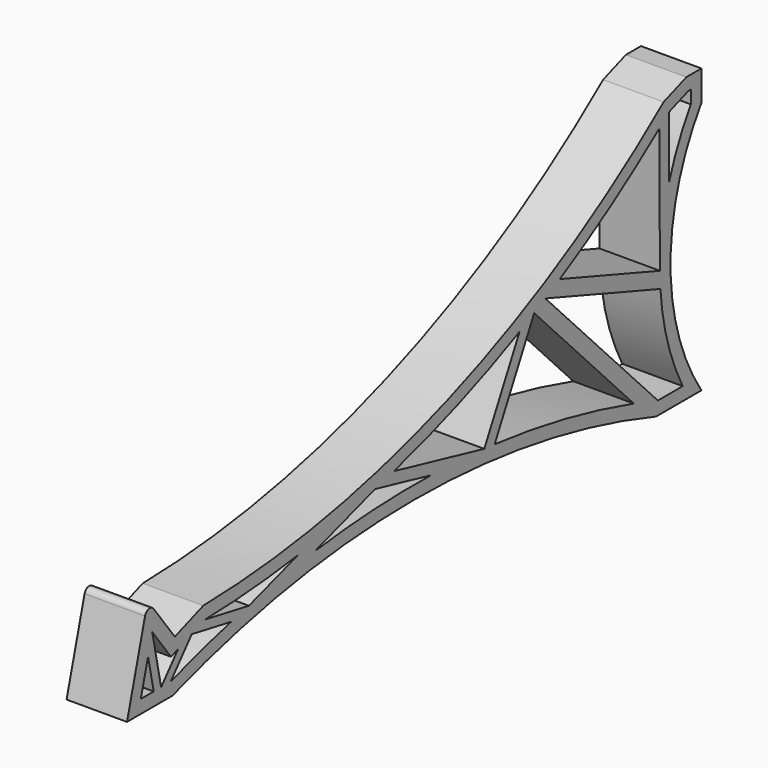
from build123d import *

# Parameters (mm, degrees)
F1_DEPTH = 16
F2_R     = 1.6


with BuildPart() as f1:
    # F0 (on Right) → F1 (new body)
    with BuildSketch(Plane.YZ):
        with BuildLine():
            ThreePointArc((15, 0), (95, 13.145614), (175, 0))
            Line((175, 0), (190, 0))
            ThreePointArc((190, 0), (179.777003, 33.5), (190, 67))
            Line((190, 67), (190, 75))
            Line((190, 75), (185, 75))
            Line((185, 75), (177.482459, 72.263839))
            ThreePointArc((177.482459, 72.263839), (105.960508, 31.872238), (25.208295, 16.840576))
            Line((25.208295, 16.840576), (15.811369, 13.420374))
            Line((15.811369, 13.420374), (6.811369, 25.420374))
            Line((6.811369, 25.420374), (0, 0))
            Line((0, 0), (15, 0))
        make_face()
        with BuildLine():
            Line((186.5, 71.5), (186.5, 68.05157))
            ThreePointArc((186.5, 68.05157), (182.422611, 60.752958), (179.3394, 52.981945))
            ThreePointArc((179.3394, 52.981945), (177.042373, 43.329355), (176.277034, 33.436778))
            ThreePointArc((176.277034, 33.436778), (176.315408, 31.291831), (176.426215, 29.149404))
            ThreePointArc((176.426215, 29.149404), (178.755472, 15.932338), (183.810495, 3.5))
            Line((183.810495, 3.5), (175.573068, 3.5))
            ThreePointArc((175.573068, 3.5), (171.612143, 4.791698), (167.630525, 6.018126))
            ThreePointArc((167.630525, 6.018126), (144.827094, 11.700459), (121.595438, 15.246651))
            ThreePointArc((121.595438, 15.246651), (119.881603, 15.421566), (118.166618, 15.58483))
            ThreePointArc((118.166618, 15.58483), (109.389568, 16.236883), (100.595173, 16.583859))
            ThreePointArc((100.595173, 16.583859), (81.30162, 16.275234), (62.087435, 14.499972))
            ThreePointArc((62.087435, 14.499972), (51.1562, 12.825352), (40.308404, 10.675571))
            ThreePointArc((40.308404, 10.675571), (37.389385, 10.012516), (34.478398, 9.315039))
            ThreePointArc((34.478398, 9.315039), (24.392776, 6.614031), (14.426932, 3.5))
            Line((14.426932, 3.5), (11.279224, 3.5))
            Line((11.279224, 3.5), (8.826995, 3.5))
            Line((8.826995, 3.5), (4.561289, 3.5))
            Line((4.561289, 3.5), (6.953964, 12.429587))
            Line((6.953964, 12.429587), (8.329443, 17.562942))
            Line((8.329443, 17.562942), (14.56898, 9.243559))
            Line((14.56898, 9.243559), (16.861352, 10.077915))
            Line((16.861352, 10.077915), (21.415797, 11.735597))
            Line((21.415797, 11.735597), (25.85958, 13.353002))
            ThreePointArc((25.85958, 13.353002), (41.247326, 14.149497), (56.558256, 15.879393))
            ThreePointArc((56.558256, 15.879393), (69.364664, 18.058301), (82.042637, 20.890389))
            ThreePointArc((82.042637, 20.890389), (85.151926, 21.690071), (88.250838, 22.529066))
            ThreePointArc((88.250838, 22.529066), (109.385571, 29.406076), (129.836717, 38.107848))
            ThreePointArc((129.836717, 38.107848), (132.260642, 39.283076), (134.671941, 40.483996))
            ThreePointArc((134.671941, 40.483996), (136.529952, 41.43132), (138.380106, 42.393898))
            ThreePointArc((138.380106, 42.393898), (140.773551, 43.668053), (143.153231, 44.967734))
            ThreePointArc((143.153231, 44.967734), (160.020121, 55.173185), (176.042957, 66.658478))
            ThreePointArc((176.042957, 66.658478), (177.639166, 67.909656), (179.225315, 69.173564))
            Line((179.225315, 69.173564), (185.617144, 71.5))
            Line((185.617144, 71.5), (186.5, 71.5))
        make_face(mode=Mode.SUBTRACT)
        Polygon((8.826995, 3.5), (11.279224, 3.5), (8.329443, 17.562942), (6.953964, 12.429587), align=None)
        Polygon((14.426932, 3.5), (21.415797, 11.735597), (16.861352, 10.077915), (11.279224, 3.5), align=None)
        with BuildLine():
            Line((40.308404, 10.675571), (25.85958, 13.353002))
            Line((25.85958, 13.353002), (21.415797, 11.735597))
            Line((21.415797, 11.735597), (34.478398, 9.315039))
            ThreePointArc((34.478398, 9.315039), (37.389385, 10.012516), (40.308404, 10.675571))
        make_face()
        with BuildLine():
            Line((118.166618, 15.58483), (88.250838, 22.529066))
            ThreePointArc((88.250838, 22.529066), (85.151926, 21.690071), (82.042637, 20.890389))
            Line((82.042637, 20.890389), (100.595173, 16.583859))
            ThreePointArc((100.595173, 16.583859), (109.389568, 16.236883), (118.166618, 15.58483))
        make_face()
        with BuildLine():
            Line((121.595438, 15.246651), (134.671941, 40.483996))
            ThreePointArc((134.671941, 40.483996), (132.260642, 39.283076), (129.836717, 38.107848))
            Line((129.836717, 38.107848), (118.166618, 15.58483))
            ThreePointArc((118.166618, 15.58483), (119.881603, 15.421566), (121.595438, 15.246651))
        make_face()
        with BuildLine():
            Line((175.573068, 3.5), (138.380106, 42.393898))
            ThreePointArc((138.380106, 42.393898), (136.529952, 41.43132), (134.671941, 40.483996))
            Line((134.671941, 40.483996), (167.630525, 6.018126))
            ThreePointArc((167.630525, 6.018126), (171.612143, 4.791698), (175.573068, 3.5))
        make_face()
        with BuildLine():
            ThreePointArc((176.426215, 29.149404), (176.315408, 31.291831), (176.277034, 33.436778))
            Line((176.277034, 33.436778), (143.153231, 44.967734))
            ThreePointArc((143.153231, 44.967734), (140.773551, 43.668053), (138.380106, 42.393898))
            Line((138.380106, 42.393898), (176.426215, 29.149404))
        make_face()
        with BuildLine():
            ThreePointArc((176.277034, 33.436778), (177.042373, 43.329355), (179.3394, 52.981945))
            Line((179.3394, 52.981945), (179.225315, 69.173564))
            ThreePointArc((179.225315, 69.173564), (177.639166, 67.909656), (176.042957, 66.658478))
            Line((176.042957, 66.658478), (176.277034, 33.436778))
        make_face()
        with BuildLine():
            Line((62.087435, 14.499972), (82.042637, 20.890389))
            ThreePointArc((82.042637, 20.890389), (69.364664, 18.058301), (56.558256, 15.879393))
            Line((56.558256, 15.879393), (40.308404, 10.675571))
            ThreePointArc((40.308404, 10.675571), (51.1562, 12.825352), (62.087435, 14.499972))
        make_face()
    extrude(amount=F1_DEPTH)

    # F2
    f2_edges = [f1.edges().sort_by_distance(p)[0] for p in [
        (8, 6.811369, 25.420374),
    ]]
    fillet(f2_edges, radius=F2_R)


solid = f1.part
